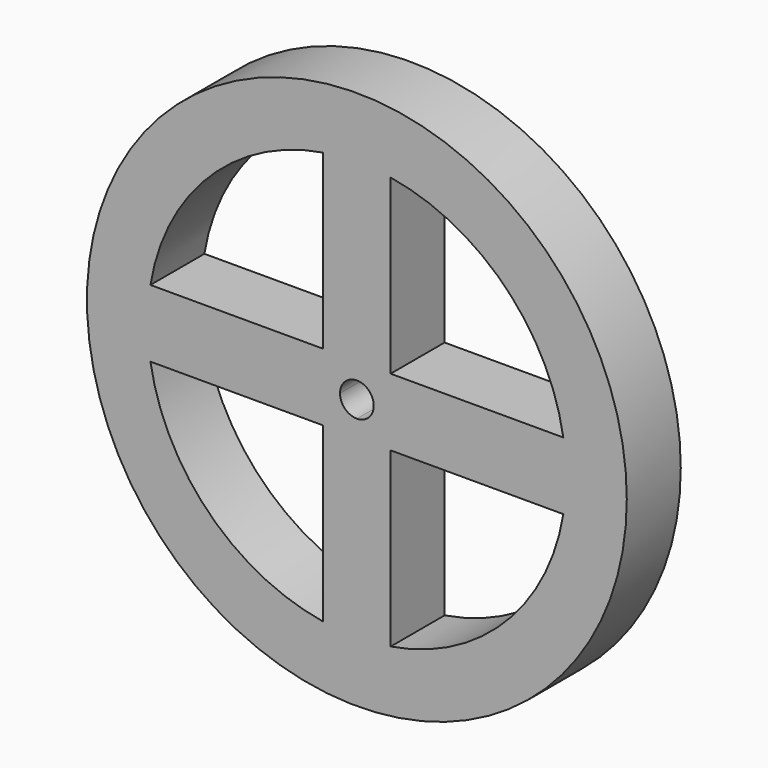
from build123d import *

# Parameters (mm, degrees)
F0_R     = 40
F1_DEPTH = 10


with BuildPart() as f1:
    # F0 (on Front) → F1 (new body)
    with BuildSketch(Plane.XZ):
        Circle(F0_R)
        with BuildLine():
            Line((-30.594117, -5), (-5, -5))
            Line((-5, -5), (-5, -30.594117))
            ThreePointArc((-5, -30.594117), (-21.92031, -21.92031), (-30.594117, -5))
        make_face(mode=Mode.SUBTRACT)
        with BuildLine():
            Line((5, -30.594117), (5, -5))
            Line((5, -5), (30.594117, -5))
            ThreePointArc((30.594117, -5), (21.92031, -21.92031), (5, -30.594117))
        make_face(mode=Mode.SUBTRACT)
        with BuildLine():
            ThreePointArc((-30.594117, 5), (-21.92031, 21.92031), (-5, 30.594117))
            Line((-5, 30.594117), (-5, 5))
            Line((-5, 5), (-30.594117, 5))
        make_face(mode=Mode.SUBTRACT)
        with BuildLine():
            ThreePointArc((0, 2.5), (1.767767, 1.767767), (2.5, 0))
            ThreePointArc((2.5, 0), (1.767767, -1.767767), (0, -2.5))
            ThreePointArc((0, -2.5), (-1.767767, -1.767767), (-2.5, 0))
            ThreePointArc((-2.5, 0), (-1.767767, 1.767767), (0, 2.5))
        make_face(mode=Mode.SUBTRACT)
        with BuildLine():
            Line((30.594117, 5), (5, 5))
            Line((5, 5), (5, 30.594117))
            ThreePointArc((5, 30.594117), (21.92031, 21.92031), (30.594117, 5))
        make_face(mode=Mode.SUBTRACT)
    extrude(amount=F1_DEPTH)


solid = f1.part
